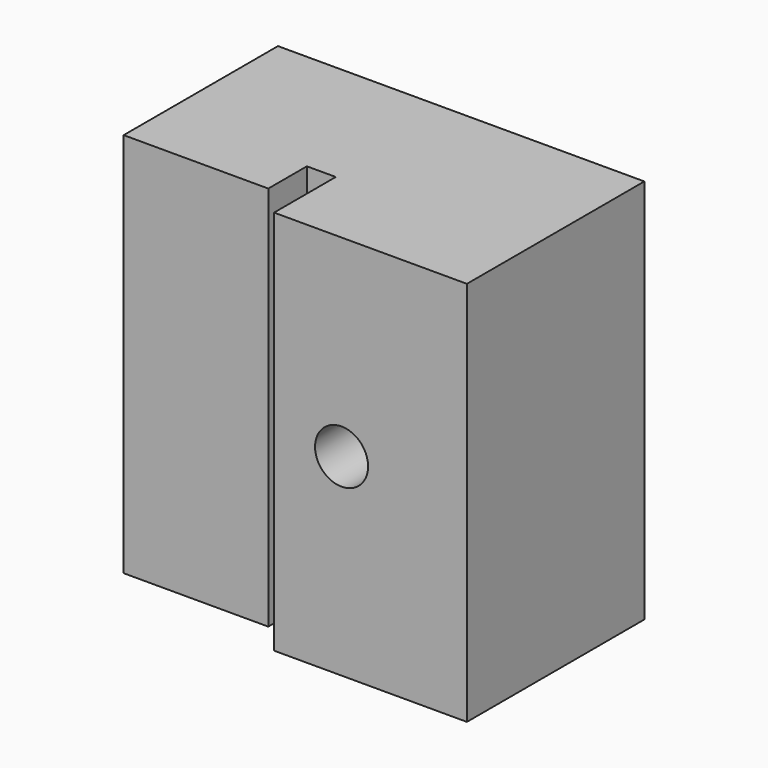
from build123d import *

# Parameters (mm, degrees)
PAD_DEPTH    = 40
SKETCH001_R  = 2.75
POCKET_DEPTH = 23.001


with BuildPart() as part:
    # Sketch → Pad (new body)
    with BuildSketch(Plane.XY):
        Polygon((-38, 23), (-38, 3), (-23, 3), (-23, 8), (-20, 8), (-20, 0), (0, 0), (0, 23), align=None)
    extrude(amount=PAD_DEPTH)

    # Sketch001 → Pocket (cut, through all)
    with BuildSketch(Plane(origin=(0, 23, 0), x_dir=(-1, 0, 0), z_dir=(0, 1, 0))):
        with Locations((13, 20)):
            Circle(SKETCH001_R)
    extrude(amount=-POCKET_DEPTH, mode=Mode.SUBTRACT)


solid = part.part
